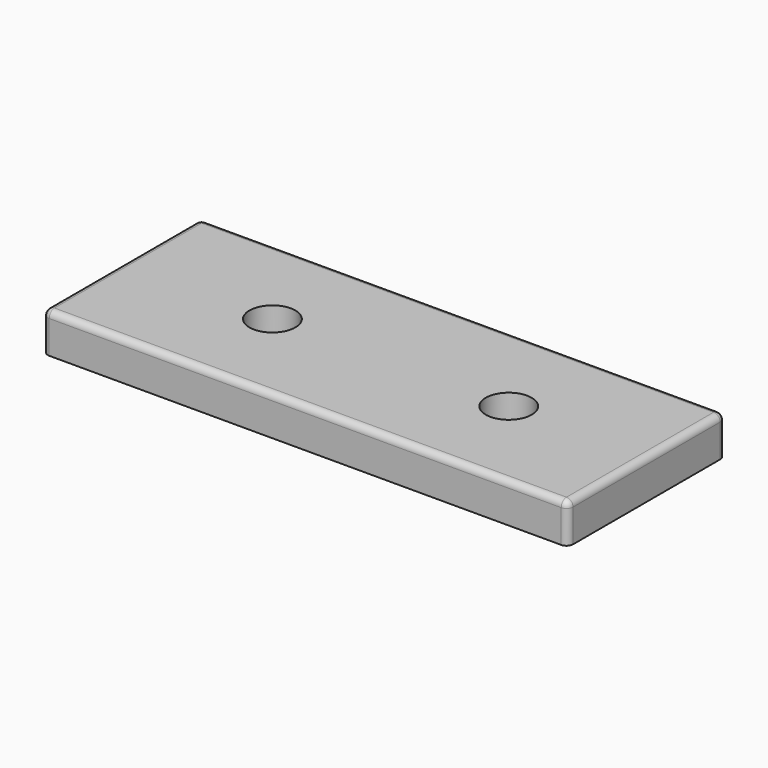
from build123d import *

# Parameters (mm, degrees)
CYLINDER001_R     = 1.75
CYLINDER001_DEPTH = 10
CYLINDER_R        = 1.75
CYLINDER_DEPTH    = 10
BOX_W             = 40
BOX_H             = 15
BOX_DEPTH         = 3
FILLET001_R       = 0.5


with BuildPart() as cilindro001:
    # Cylinder001 → Cylinder001 (new body)
    with BuildSketch(Plane(origin=(29.5, 7.5, -4), x_dir=(1, 0, 0), z_dir=(0, 0, 1))):
        Circle(CYLINDER001_R)
    extrude(amount=CYLINDER001_DEPTH)


with BuildPart() as cilindro:
    # Cylinder → Cylinder (new body)
    with BuildSketch(Plane(origin=(11.5, 7.5, -4), x_dir=(1, 0, 0), z_dir=(0, 0, 1))):
        Circle(CYLINDER_R)
    extrude(amount=CYLINDER_DEPTH)


with BuildPart() as fillet001:
    # Box → Box (new body)
    with BuildSketch(Plane.XY):
        with Locations((20, 7.5)):
            Rectangle(BOX_W, BOX_H)
    extrude(amount=BOX_DEPTH)

    # Cut: cut Cilindro
    add(cilindro.part, mode=Mode.SUBTRACT)

    # Cut001: cut Cilindro001
    add(cilindro001.part, mode=Mode.SUBTRACT)

    # Fillet001
    fillet001_edges = [fillet001.edges().sort_by_distance(p)[0] for p in [
        (0, 0, 1.5),
        (0, 7.5, 3),
        (0, 15, 1.5),
        (40, 0, 1.5),
        (20, 0, 3),
        (20, 15, 3),
        (40, 7.5, 3),
        (40, 15, 1.5),
    ]]
    fillet(fillet001_edges, radius=FILLET001_R)


solid = fillet001.part
